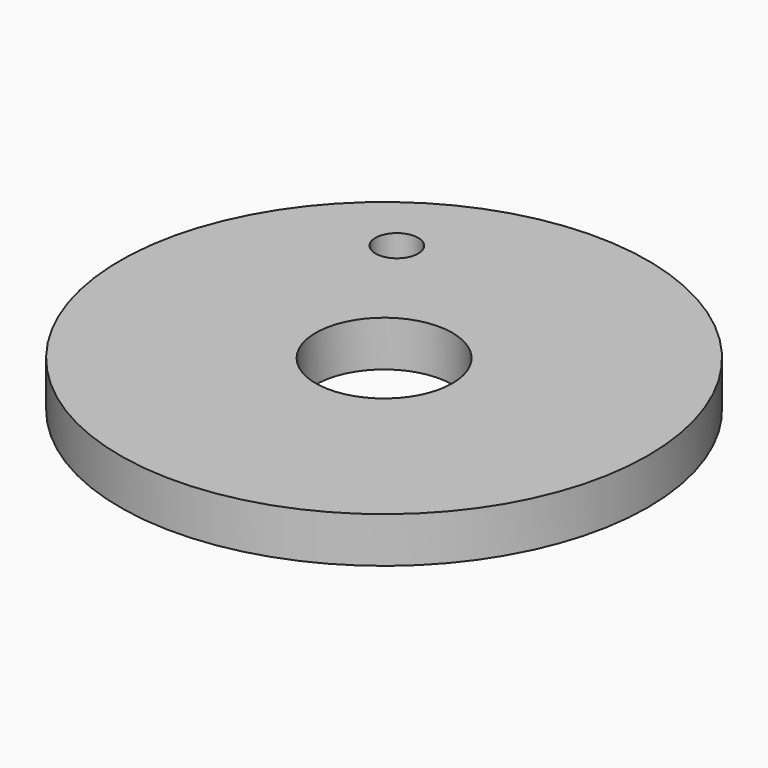
from build123d import *

# Parameters (mm, degrees)
F0_R     = 17.375
F1_DEPTH = 3
F2_R     = 4.5
F3_DEPTH = 25.4
F4_R     = 1.406737
F5_DEPTH = 25


with BuildPart() as f1:
    # F0 (on Top) → F1 (new body)
    with BuildSketch(Plane.XY):
        Circle(F0_R)
    extrude(amount=F1_DEPTH)

    # F2 (on face) → F3 (cut)
    with BuildSketch(Plane.XY.offset(3)):
        Circle(F2_R)
    extrude(amount=-F3_DEPTH, mode=Mode.SUBTRACT)

    # F4 (on Top) → F5 (cut)
    with BuildSketch(Plane.XY):
        with Locations((-7.30325, 10.177708)):
            Circle(F4_R)
    extrude(amount=F5_DEPTH, mode=Mode.SUBTRACT)


solid = f1.part
